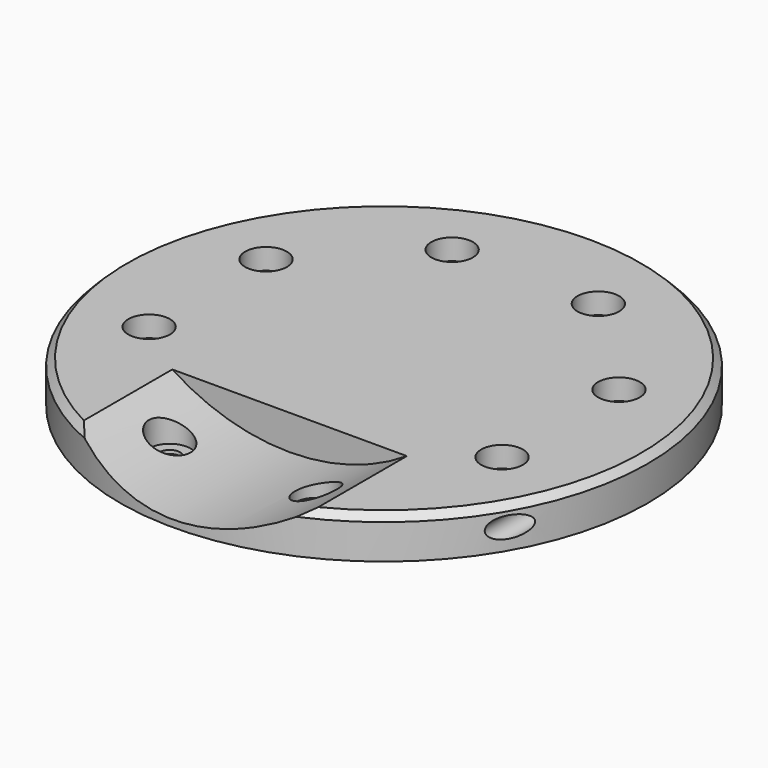
from build123d import *

# Parameters (mm, degrees)
CYLINDER2825_R               = 1.5
CYLINDER2825_DEPTH           = 60
CYLINDER2835_R               = 1.5
CYLINDER2835_DEPTH           = 60
TUBE143_R                    = 31
TUBE143_R_2                  = 22
TUBE143_DEPTH                = 24
CYLINDER2832_R               = 14
CYLINDER2832_DEPTH           = 5
CYLINDER2812_R               = 1.5
CYLINDER2812_DEPTH           = 20
CYLINDER2812_PLACEMENT_ANGLE = 45
CYLINDER2830_R               = 1.5
CYLINDER2830_DEPTH           = 20
CYLINDER2813_R               = 1.5
CYLINDER2813_DEPTH           = 20
CYLINDER2813_PLACEMENT_ANGLE = 135
CYLINDER2828_R               = 1.5
CYLINDER2828_DEPTH           = 20
CYLINDER2834_R               = 1.5
CYLINDER2834_DEPTH           = 20
CYLINDER2834_PLACEMENT_ANGLE = 225
CYLINDER2827_R               = 1.5
CYLINDER2827_DEPTH           = 20
CYLINDER2831_R               = 1.5
CYLINDER2831_DEPTH           = 20
CYLINDER2831_PLACEMENT_ANGLE = 45
CYLINDER2816_R               = 1.5
CYLINDER2816_DEPTH           = 20
CYLINDER2822_R               = 3
CYLINDER2822_DEPTH           = 3
CYLINDER2822_PLACEMENT_ANGLE = 45
CYLINDER2819_R               = 3
CYLINDER2819_DEPTH           = 3
CYLINDER2814_R               = 3
CYLINDER2814_DEPTH           = 3
CYLINDER2814_PLACEMENT_ANGLE = 135
CYLINDER2811_R               = 3
CYLINDER2811_DEPTH           = 5
CYLINDER2829_R               = 3
CYLINDER2829_DEPTH           = 5
CYLINDER2829_PLACEMENT_ANGLE = 225
CYLINDER2824_R               = 3
CYLINDER2824_DEPTH           = 3
CYLINDER2833_R               = 3
CYLINDER2833_DEPTH           = 3
CYLINDER2833_PLACEMENT_ANGLE = 45
CYLINDER2823_R               = 3
CYLINDER2823_DEPTH           = 3
CYLINDER2826_R               = 38
CYLINDER2826_DEPTH           = 6
CHAMFER151_SIZE              = 1
CHAMFER151_ROLL_ANGLE        = 180
CHAMFER151_PLACEMENT_ANGLE   = -157.5


with BuildPart() as obj1:
    # Cylinder2825 → Cylinder2825 (new body)
    with BuildSketch(Plane(origin=(33, -10, 8), x_dir=(1, 0, 0), z_dir=(0, -1, 0))):
        Circle(CYLINDER2825_R)
    extrude(amount=CYLINDER2825_DEPTH)


with BuildPart() as compound1259:
    # Cylinder2835 → Cylinder2835 (new body)
    with BuildSketch(Plane(origin=(-33, -10, 8), x_dir=(1, 0, 0), z_dir=(0, -1, 0))):
        Circle(CYLINDER2835_R)
    extrude(amount=CYLINDER2835_DEPTH)

    # Compound1259: union obj1
    add(obj1.part)


with BuildPart() as compound1259_1:
    # Compound1259 placement: moved
    add(compound1259.part.moved(Location((0, -1, 0))))


with BuildPart() as tube143:
    # Tube143 → Tube143 (new body)
    with BuildSketch(Plane(origin=(0, -17, 37), x_dir=(1, 0, 0), z_dir=(0, -1, 0))):
        Circle(TUBE143_R)
        Circle(TUBE143_R_2, mode=Mode.SUBTRACT)
    extrude(amount=TUBE143_DEPTH)


with BuildPart() as obj2:
    # Cylinder2832 → Cylinder2832 (new body)
    with BuildSketch(Plane.XY.offset(1)):
        Circle(CYLINDER2832_R)
    extrude(amount=CYLINDER2832_DEPTH)


with BuildPart() as obj3:
    # Cylinder2812 → Cylinder2812 (new body)
    with BuildSketch(Plane.XY):
        Circle(CYLINDER2812_R)
    extrude(amount=CYLINDER2812_DEPTH)


with BuildPart() as obj3_1:
    # Cylinder2812 placement: moved
    add(obj3.part.moved(Location((-19.445436, 19.445436, 19))).rotate(Axis((-19.445436, 19.445436, 19), (0, 0, 1)), CYLINDER2812_PLACEMENT_ANGLE))


with BuildPart() as obj4:
    # Cylinder2830 → Cylinder2830 (new body)
    with BuildSketch(Plane(origin=(-27.5, 0, 19), x_dir=(0, 1, 0), z_dir=(0, 0, 1))):
        Circle(CYLINDER2830_R)
    extrude(amount=CYLINDER2830_DEPTH)


with BuildPart() as obj5:
    # Cylinder2813 → Cylinder2813 (new body)
    with BuildSketch(Plane.XY):
        Circle(CYLINDER2813_R)
    extrude(amount=CYLINDER2813_DEPTH)


with BuildPart() as obj5_1:
    # Cylinder2813 placement: moved
    add(obj5.part.moved(Location((-19.445436, -19.445436, 19))).rotate(Axis((-19.445436, -19.445436, 19), (0, 0, 1)), CYLINDER2813_PLACEMENT_ANGLE))


with BuildPart() as obj6:
    # Cylinder2828 → Cylinder2828 (new body)
    with BuildSketch(Plane(origin=(0, -27.5, 19), x_dir=(-1, 0, 0), z_dir=(0, 0, 1))):
        Circle(CYLINDER2828_R)
    extrude(amount=CYLINDER2828_DEPTH)


with BuildPart() as obj7:
    # Cylinder2834 → Cylinder2834 (new body)
    with BuildSketch(Plane.XY):
        Circle(CYLINDER2834_R)
    extrude(amount=CYLINDER2834_DEPTH)


with BuildPart() as obj7_1:
    # Cylinder2834 placement: moved
    add(obj7.part.moved(Location((19.445436, -19.445436, 19))).rotate(Axis((19.445436, -19.445436, 19), (0, 0, 1)), CYLINDER2834_PLACEMENT_ANGLE))


with BuildPart() as obj8:
    # Cylinder2827 → Cylinder2827 (new body)
    with BuildSketch(Plane(origin=(27.5, 0, 19), x_dir=(0, -1, 0), z_dir=(0, 0, 1))):
        Circle(CYLINDER2827_R)
    extrude(amount=CYLINDER2827_DEPTH)


with BuildPart() as obj9:
    # Cylinder2831 → Cylinder2831 (new body)
    with BuildSketch(Plane.XY):
        Circle(CYLINDER2831_R)
    extrude(amount=CYLINDER2831_DEPTH)


with BuildPart() as obj9_1:
    # Cylinder2831 placement: moved
    add(obj9.part.moved(Location((19.445436, 19.445436, 19))).rotate(Axis((19.445436, 19.445436, 19), (0, 0, -1)), CYLINDER2831_PLACEMENT_ANGLE))


with BuildPart() as compound1265:
    # Cylinder2816 → Cylinder2816 (new body)
    with BuildSketch(Plane(origin=(0, 27.5, 19), x_dir=(1, 0, 0), z_dir=(0, 0, 1))):
        Circle(CYLINDER2816_R)
    extrude(amount=CYLINDER2816_DEPTH)

    # Compound1265: union obj3, obj4, obj5, obj6, obj7, obj8, obj9
    add(obj3_1.part)
    add(obj4.part)
    add(obj5_1.part)
    add(obj6.part)
    add(obj7_1.part)
    add(obj8.part)
    add(obj9_1.part)


with BuildPart() as compound1265_1:
    # Compound1265 placement: moved
    add(compound1265.part.moved(Location((0, 0, -23))))


with BuildPart() as obj10:
    # Cylinder2822 → Cylinder2822 (new body)
    with BuildSketch(Plane.XY):
        Circle(CYLINDER2822_R)
    extrude(amount=CYLINDER2822_DEPTH)


with BuildPart() as obj10_1:
    # Cylinder2822 placement: moved
    add(obj10.part.moved(Location((-19.45, 19.45, 19))).rotate(Axis((-19.45, 19.45, 19), (0, 0, 1)), CYLINDER2822_PLACEMENT_ANGLE))


with BuildPart() as obj11:
    # Cylinder2819 → Cylinder2819 (new body)
    with BuildSketch(Plane(origin=(-27.5, 0, 19), x_dir=(0, 1, 0), z_dir=(0, 0, 1))):
        Circle(CYLINDER2819_R)
    extrude(amount=CYLINDER2819_DEPTH)


with BuildPart() as obj12:
    # Cylinder2814 → Cylinder2814 (new body)
    with BuildSketch(Plane.XY):
        Circle(CYLINDER2814_R)
    extrude(amount=CYLINDER2814_DEPTH)


with BuildPart() as obj12_1:
    # Cylinder2814 placement: moved
    add(obj12.part.moved(Location((-19.445436, -19.445436, 19))).rotate(Axis((-19.445436, -19.445436, 19), (0, 0, 1)), CYLINDER2814_PLACEMENT_ANGLE))


with BuildPart() as obj13:
    # Cylinder2811 → Cylinder2811 (new body)
    with BuildSketch(Plane(origin=(0, -27.5, 19.5), x_dir=(-1, 0, 0), z_dir=(0, 0, 1))):
        Circle(CYLINDER2811_R)
    extrude(amount=CYLINDER2811_DEPTH)


with BuildPart() as obj14:
    # Cylinder2829 → Cylinder2829 (new body)
    with BuildSketch(Plane.XY):
        Circle(CYLINDER2829_R)
    extrude(amount=CYLINDER2829_DEPTH)


with BuildPart() as obj14_1:
    # Cylinder2829 placement: moved
    add(obj14.part.moved(Location((19.45, -19.45, 19.5))).rotate(Axis((19.45, -19.45, 19.5), (0, 0, 1)), CYLINDER2829_PLACEMENT_ANGLE))


with BuildPart() as obj15:
    # Cylinder2824 → Cylinder2824 (new body)
    with BuildSketch(Plane(origin=(27.5, 0, 19), x_dir=(0, -1, 0), z_dir=(0, 0, 1))):
        Circle(CYLINDER2824_R)
    extrude(amount=CYLINDER2824_DEPTH)


with BuildPart() as obj16:
    # Cylinder2833 → Cylinder2833 (new body)
    with BuildSketch(Plane.XY):
        Circle(CYLINDER2833_R)
    extrude(amount=CYLINDER2833_DEPTH)


with BuildPart() as obj16_1:
    # Cylinder2833 placement: moved
    add(obj16.part.moved(Location((19.445436, 19.445436, 19))).rotate(Axis((19.445436, 19.445436, 19), (0, 0, -1)), CYLINDER2833_PLACEMENT_ANGLE))


with BuildPart() as compound1261:
    # Cylinder2823 → Cylinder2823 (new body)
    with BuildSketch(Plane(origin=(0, 27.5, 19), x_dir=(1, 0, 0), z_dir=(0, 0, 1))):
        Circle(CYLINDER2823_R)
    extrude(amount=CYLINDER2823_DEPTH)

    # Compound1261: union obj10, obj11, obj12, obj13, obj14, obj15, obj16
    add(obj10_1.part)
    add(obj11.part)
    add(obj12_1.part)
    add(obj13.part)
    add(obj14_1.part)
    add(obj15.part)
    add(obj16_1.part)


with BuildPart() as compound1261_1:
    # Compound1261 placement: moved
    add(compound1261.part.moved(Location((0, 0, -19))))


with BuildPart() as cut1069:
    # Cylinder2826 → Cylinder2826 (new body)
    with BuildSketch(Plane.XY):
        Circle(CYLINDER2826_R)
    extrude(amount=CYLINDER2826_DEPTH)

    # Cut1083: cut Compound1261
    add(compound1261_1.part, mode=Mode.SUBTRACT)

    # Cut1080: cut Compound1265
    add(compound1265_1.part, mode=Mode.SUBTRACT)

    # Cut1077: cut obj2
    add(obj2.part, mode=Mode.SUBTRACT)

    # Chamfer151
    chamfer151_edges = [cut1069.edges().sort_by_distance(p)[0] for p in [
        (-38, 0, 0),
    ]]
    chamfer(chamfer151_edges, length=CHAMFER151_SIZE)


with BuildPart() as cut1069_1:
    # Chamfer151 roll: moved
    add(cut1069.part.rotate(Axis((0, 0, 0), (1, 0, 0)), CHAMFER151_ROLL_ANGLE))


with BuildPart() as cut1069_2:
    # Chamfer151 placement: moved
    add(cut1069_1.part.moved(Location((0, 0, 11))).rotate(Axis((0, 0, 11), (0, 0, 1)), CHAMFER151_PLACEMENT_ANGLE))

    # Cut1072: cut Tube143
    add(tube143.part, mode=Mode.SUBTRACT)

    # Cut1069: cut Compound1259
    add(compound1259_1.part, mode=Mode.SUBTRACT)


solid = cut1069_2.part
